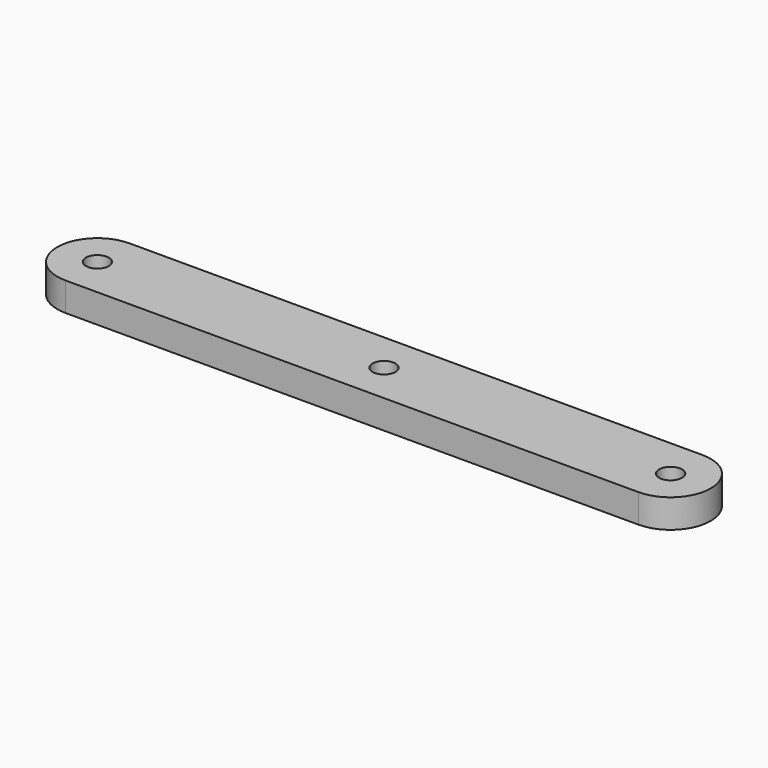
from build123d import *

# Parameters (mm, degrees)
F0_R     = 2
F1_DEPTH = 5


with BuildPart() as f1:
    # F0 (on Top) → F1 (new body)
    with BuildSketch(Plane.XY):
        with BuildLine():
            ThreePointArc((0, -7), (7, 0), (0, 7))
            Line((0, 7), (-100, 7))
            ThreePointArc((-100, 7), (-107, 0), (-100, -7))
            Line((-100, -7), (0, -7))
        make_face()
        with Locations((-100, 0)):
            Circle(F0_R, mode=Mode.SUBTRACT)
        with Locations((-50, 0)):
            Circle(F0_R, mode=Mode.SUBTRACT)
        Circle(F0_R, mode=Mode.SUBTRACT)
    extrude(amount=F1_DEPTH)


solid = f1.part
